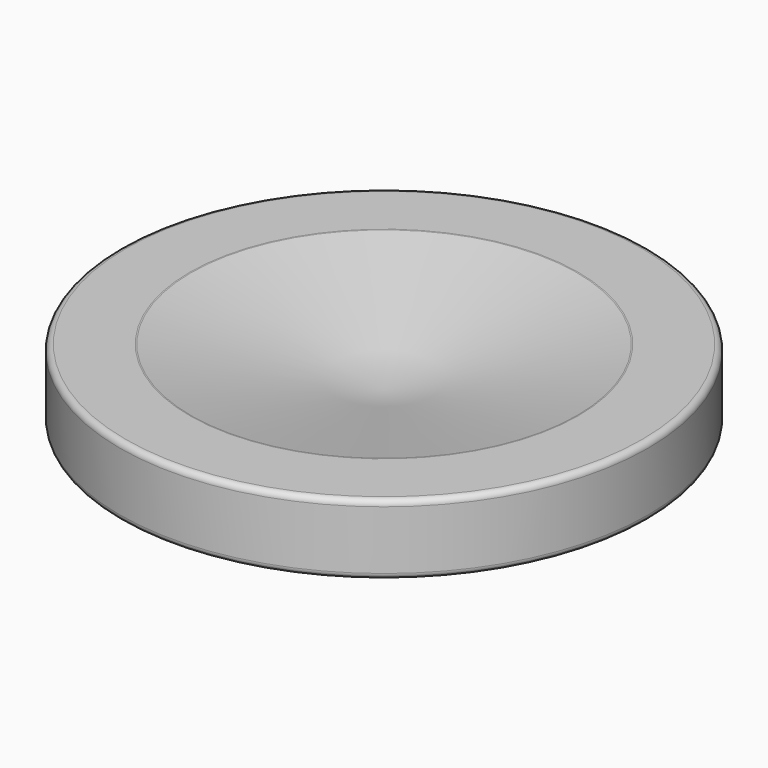
from build123d import *

# Parameters (mm, degrees)
F0_R     = 11.25
F0_R_2   = 8.25
F0_R_3   = 5.95
F0_R_4   = 3.95
F1_DEPTH = 3
F2_DEPTH = 0.75
F3_DEPTH = 3.65
F6_R     = 0.25


with BuildPart() as f1:
    # F0 (on Top) → F1 (new body)
    with BuildSketch(Plane.XY):
        Circle(F0_R)
        Circle(F0_R_2, mode=Mode.SUBTRACT)
        Circle(F0_R_2)
        Circle(F0_R_3, mode=Mode.SUBTRACT)
        Circle(F0_R_3)
        Circle(F0_R_4, mode=Mode.SUBTRACT)
        Circle(F0_R_4)
    extrude(amount=F1_DEPTH)

    # F0 (on Top) → F2 (join)
    with BuildSketch(Plane.XY):
        Circle(F0_R_3)
        Circle(F0_R_4, mode=Mode.SUBTRACT)
        Circle(F0_R_4)
    extrude(amount=-F2_DEPTH)

    # F0 (on Top) → F3 (join)
    with BuildSketch(Plane.XY):
        Circle(F0_R_4)
    extrude(amount=-F3_DEPTH)

    # F4 (on Front) → F5 (revolve, cut)
    with BuildSketch(Plane.XZ):
        Polygon((0, 3), (0, 1.283717), (8.25, 3), align=None)
    revolve(axis=Axis((0, 0, 2.141858), (0, 0, 1)), mode=Mode.SUBTRACT)

    # F6
    f6_edges = [f1.edges().sort_by_distance(p)[0] for p in [
        (-8.25, 0, 3),
        (-11.25, 0, 3),
        (-11.25, 0, 0),
        (-3.95, 0, -3.65),
        (-3.95, 0, -0.75),
        (-5.95, 0, -0.75),
        (5.95, 0, -0.375),
        (-5.95, 0, 0),
    ]]
    fillet(f6_edges, radius=F6_R)


solid = f1.part
